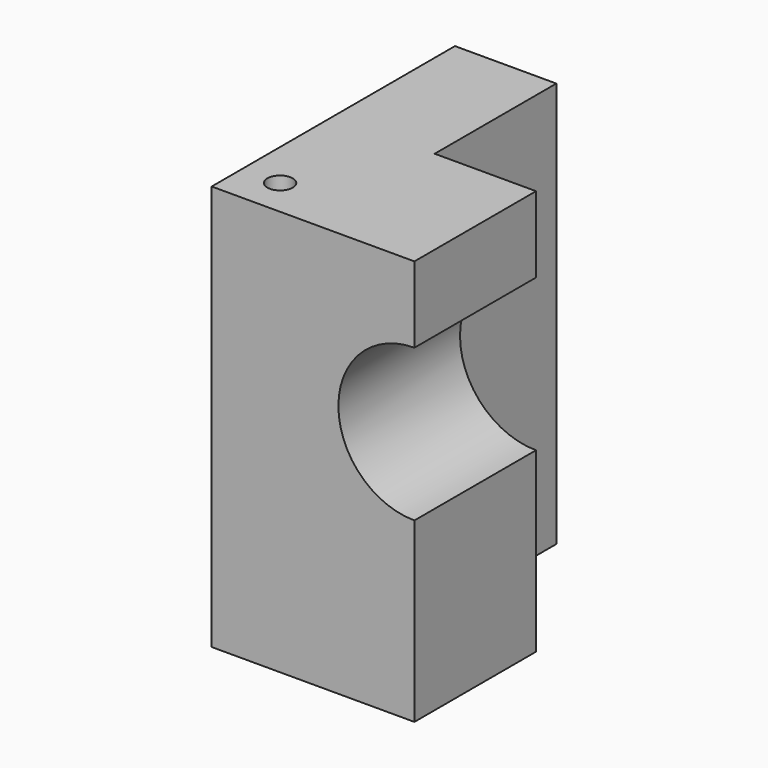
from build123d import *

# Parameters (mm, degrees)
F1_DEPTH = 101.6
F2_R     = 3.175
F3_DEPTH = 101.6
F4_R     = 19.05
F5_DEPTH = 38.1


with BuildPart() as f1:
    # F0 (on Top) → F1 (new body)
    with BuildSketch(Plane.XY):
        Polygon((0, 0), (0, 38.1), (-25.4, 38.1), (-25.4, -38.1), (25.4, -38.1), (25.4, 0), align=None)
    extrude(amount=F1_DEPTH)

    # F2 (on face) → F3 (cut, through all)
    with BuildSketch(Plane.XY.offset(101.6)):
        with Locations((-15.875, -28.575)):
            Circle(F2_R)
    extrude(amount=-F3_DEPTH, mode=Mode.SUBTRACT)

    # F4 (on face) → F5 (cut, through all)
    with BuildSketch(Plane.XZ.offset(38.1)):
        with Locations((25.4, 63.5)):
            Circle(F4_R)
    extrude(amount=-F5_DEPTH, mode=Mode.SUBTRACT)


solid = f1.part
